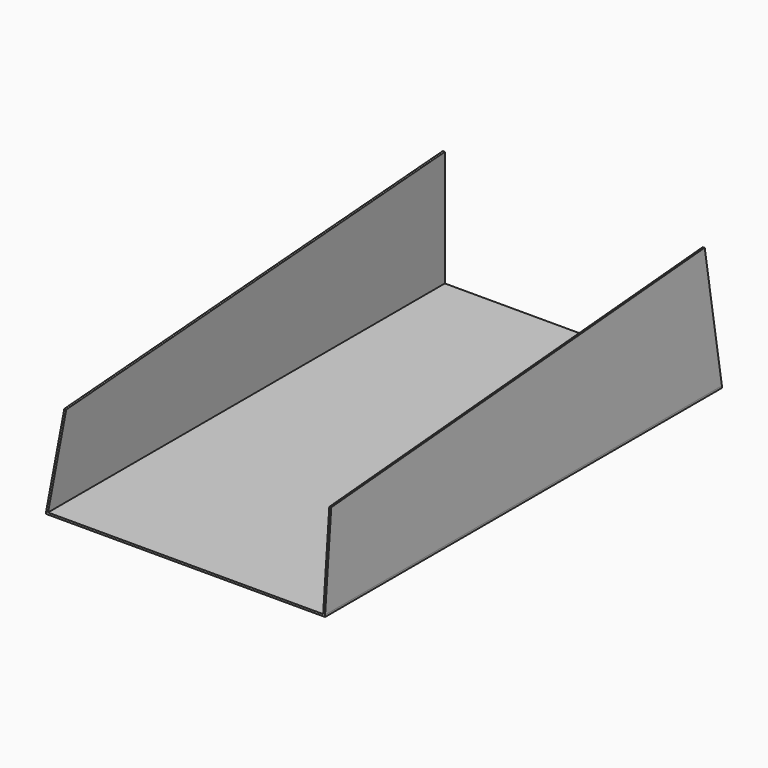
from build123d import *

# Parameters (mm, degrees)
F0_W          = 228.6
F0_H          = 406.4
F1_DEPTH      = 1.5875
F7_DEPTH      = 203.2
F7_DEPTH_BACK = 147.32


with BuildPart() as f1:
    # F0 (on Top) → F1 (new body)
    with BuildSketch(Plane.XY):
        Rectangle(F0_W, F0_H)
    extrude(amount=F1_DEPTH)


with BuildPart() as f4:
    # F2 (on face) → F4 section 0
    with BuildSketch(Plane(origin=(0, 203.2, 0), x_dir=(-1, 0, 0), z_dir=(0, 1, 0))):
        Polygon((112.7086234868, 1.5875), (114.3, 1.5875), (107.1954359065, 103.1875), (105.6118029768, 103.0767615979), align=None)
    # F3 (on face) → F4 section 1
    with BuildSketch(Plane.XZ.offset(203.2)):
        Polygon((-109.4156121857, 71.4375), (-114.3, 1.5875), (-112.7086234868, 1.5875), (-107.831979256, 71.3267615979), align=None)
    loft()


with BuildPart() as f6_1:
    # F6: instance of F4
    add(f4.part.mirror(Plane.YZ))


with BuildPart() as f7_tool:
    # F5 (on Right) → F7 (new body, two sides)
    with BuildSketch(Plane.YZ) as f7_sk:
        Polygon((192.9446142204, 118.8070958455), (203.2, 1.5875), (203.2, 118.8070958455), align=None)
        Polygon((-203.2, 88.56990411), (-203.2, 1.5875), (-187.8626553085, 88.56990411), align=None)
    extrude(amount=-F7_DEPTH)
    extrude(f7_sk.sketch, amount=F7_DEPTH_BACK)


with BuildPart() as f4_1:
    add(f4.part)

    # F7: cut by f7_tool
    add(f7_tool.part, mode=Mode.SUBTRACT)


with BuildPart() as f6_1_1:
    add(f6_1.part)

    # F7: cut by f7_tool
    add(f7_tool.part, mode=Mode.SUBTRACT)


solid = Compound([f1.part, f4_1.part, f6_1_1.part])
